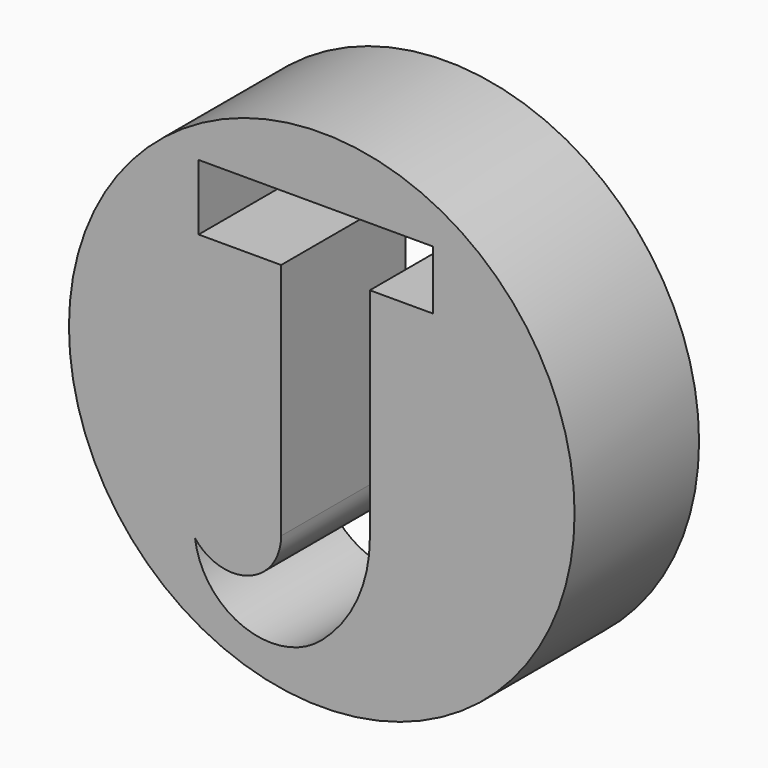
from build123d import *

# Parameters (mm, degrees)
F0_R     = 41.275
F1_DEPTH = 25.4
F3_DEPTH = 25.401


with BuildPart() as f1:
    # F0 (on Front) → F1 (new body)
    with BuildSketch(Plane.XZ):
        with Locations((0, -3.424344)):
            Circle(F0_R)
    extrude(amount=F1_DEPTH)

    # F2 (on Front) → F3 (cut, through all)
    with BuildSketch(Plane.XZ):
        with BuildLine():
            Line((18.177833, 27.404457), (-20.105783, 27.404457))
            Line((-20.105783, 27.404457), (-20.105783, 20.794338))
            Line((-20.105783, 20.794338), (-20.105783, 18.795565))
            Line((-20.105783, 18.795565), (-20.105783, 16.682114))
            Line((-20.105783, 16.682114), (-6.635539, 16.682114))
            Line((-6.635539, 16.682114), (-6.635539, 0))
            Line((-6.635539, 0), (-6.635539, -10.14046))
            Line((-6.635539, -10.14046), (-6.635539, -22.24979))
            ThreePointArc((-6.635539, -22.24979), (-11.919665, -29.691852), (-20.687664, -27.156409))
            ThreePointArc((-20.687664, -27.156409), (-12.717957, -37.315258), (0, -35.085455))
            ThreePointArc((0, -35.085455), (5.793441, -27.356806), (7.848652, -17.919006))
            Line((7.848652, -17.919006), (7.848652, 0))
            Line((7.848652, 0), (7.848652, 17.764699))
            Line((7.848652, 17.764699), (18.177833, 17.764699))
            Line((18.177833, 17.764699), (18.177833, 27.404457))
        make_face()
    extrude(amount=F3_DEPTH, mode=Mode.SUBTRACT)


solid = f1.part
